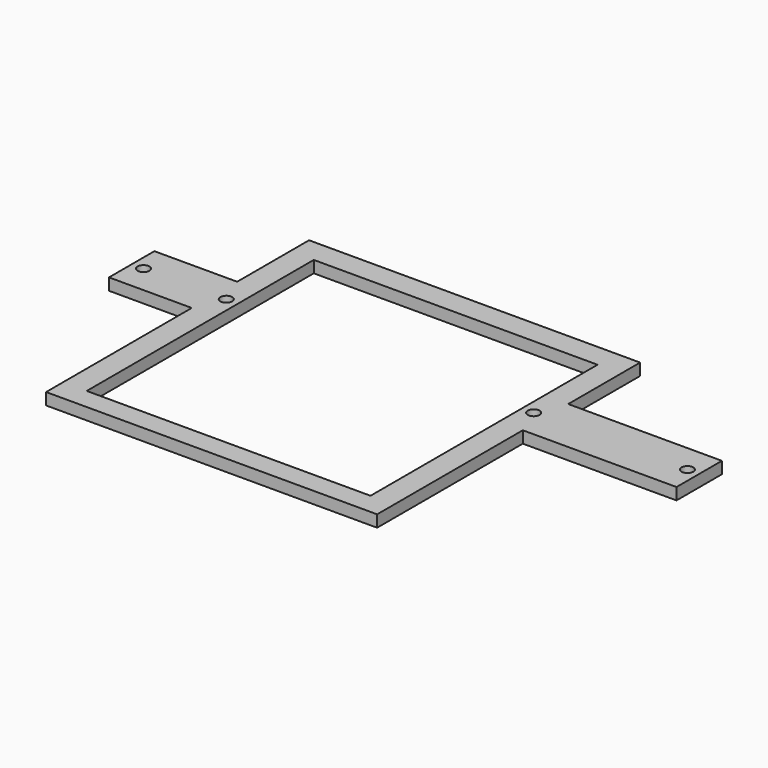
from build123d import *

# Parameters (mm, degrees)
BOX019_W               = 120
BOX019_H               = 30
BOX019_DEPTH           = 120
CYLINDER075_R          = 2.5
CYLINDER075_DEPTH      = 10
CYLINDER076_R          = 2.5
CYLINDER076_DEPTH      = 10
CYLINDER077_R          = 2.5
CYLINDER077_DEPTH      = 10
CYLINDER078_R          = 2.5
CYLINDER078_DEPTH      = 10
CYLINDER074_R          = 2.5
CYLINDER074_DEPTH      = 10
CYLINDER079_R          = 2.5
CYLINDER079_DEPTH      = 10
BOX016_W               = 240
BOX016_H               = 5
BOX016_DEPTH           = 24
BOX017_W               = 140
BOX017_H               = 5
BOX017_DEPTH           = 38
BOX018_W               = 140
BOX018_H               = 5
BOX018_DEPTH           = 77
CUT010_PLACEMENT_ANGLE = 270


with BuildPart() as gatewaycut002:
    # Box019 → Box019 (new body)
    with BuildSketch(Plane(origin=(-75, -3.2, -111), x_dir=(1, 0, 0), z_dir=(0, 0, 1))):
        with Locations((60, 15)):
            Rectangle(BOX019_W, BOX019_H)
    extrude(amount=BOX019_DEPTH)


with BuildPart() as cylinder075:
    # Cylinder075 → Cylinder075 (new body)
    with BuildSketch(Plane(origin=(115, 0, -31), x_dir=(1, 0, 0), z_dir=(0, -1, 0))):
        Circle(CYLINDER075_R)
    extrude(amount=CYLINDER075_DEPTH)


with BuildPart() as cylinder076:
    # Cylinder076 → Cylinder076 (new body)
    with BuildSketch(Plane(origin=(-80, 0, -31), x_dir=(1, 0, 0), z_dir=(0, -1, 0))):
        Circle(CYLINDER076_R)
    extrude(amount=CYLINDER076_DEPTH)


with BuildPart() as cylinder077:
    # Cylinder077 → Cylinder077 (new body)
    with BuildSketch(Plane(origin=(50, 0, -31), x_dir=(1, 0, 0), z_dir=(0, -1, 0))):
        Circle(CYLINDER077_R)
    extrude(amount=CYLINDER077_DEPTH)


with BuildPart() as cylinder078:
    # Cylinder078 → Cylinder078 (new body)
    with BuildSketch(Plane(origin=(-45.75, 0, -56.3), x_dir=(1, 0, 0), z_dir=(0, -1, 0))):
        Circle(CYLINDER078_R)
    extrude(amount=CYLINDER078_DEPTH)


with BuildPart() as cylinder074:
    # Cylinder074 → Cylinder074 (new body)
    with BuildSketch(Plane(origin=(-115, 0, -31), x_dir=(1, 0, 0), z_dir=(0, -1, 0))):
        Circle(CYLINDER074_R)
    extrude(amount=CYLINDER074_DEPTH)


with BuildPart() as m3heatsetinserts004:
    # Cylinder079 → Cylinder079 (new body)
    with BuildSketch(Plane(origin=(-45.75, 0, -1.3), x_dir=(1, 0, 0), z_dir=(0, -1, 0))):
        Circle(CYLINDER079_R)
    extrude(amount=CYLINDER079_DEPTH)

    # Fusion028: union Cylinder075, Cylinder076, Cylinder077, Cylinder078, Cylinder074
    add(cylinder075.part)
    add(cylinder076.part)
    add(cylinder077.part)
    add(cylinder078.part)
    add(cylinder074.part)


with BuildPart() as m3heatsetinserts004_1:
    # Fusion028 placement: moved
    add(m3heatsetinserts004.part.moved(Location((0, 5.1, 0))))


with BuildPart() as cube013:
    # Box016 → Box016 (new body)
    with BuildSketch(Plane(origin=(-120, 0, -43), x_dir=(1, 0, 0), z_dir=(0, 0, 1))):
        with Locations((120, 2.5)):
            Rectangle(BOX016_W, BOX016_H)
    extrude(amount=BOX016_DEPTH)


with BuildPart() as cube014:
    # Box017 → Box017 (new body)
    with BuildSketch(Plane(origin=(-85, 0, -19), x_dir=(1, 0, 0), z_dir=(0, 0, 1))):
        with Locations((70, 2.5)):
            Rectangle(BOX017_W, BOX017_H)
    extrude(amount=BOX017_DEPTH)


with BuildPart() as obj1:
    # Box018 → Box018 (new body)
    with BuildSketch(Plane(origin=(-85, 0, -120), x_dir=(1, 0, 0), z_dir=(0, 0, 1))):
        with Locations((70, 2.5)):
            Rectangle(BOX018_W, BOX018_H)
    extrude(amount=BOX018_DEPTH)

    # Fusion027: union Cube013, Cube014
    add(cube013.part)
    add(cube014.part)

    # Cut009: cut M3HeatSetInserts004
    add(m3heatsetinserts004_1.part, mode=Mode.SUBTRACT)

    # Cut010: cut GatewayCut002
    add(gatewaycut002.part, mode=Mode.SUBTRACT)


with BuildPart() as obj1_1:
    # Cut010 placement: moved
    add(obj1.part.rotate(Axis((0, 0, 0), (1, 0, 0)), CUT010_PLACEMENT_ANGLE))


solid = obj1_1.part
